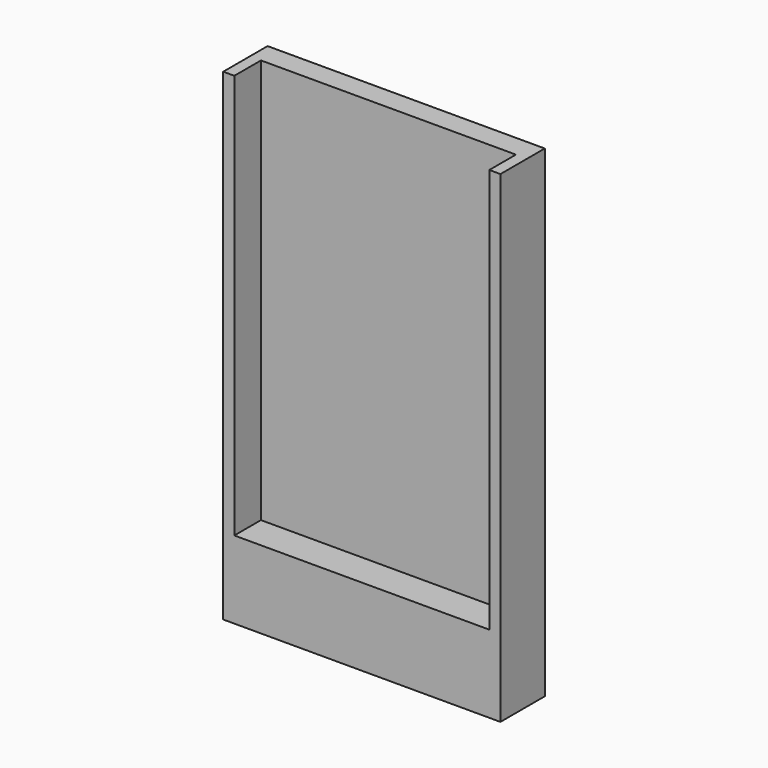
from build123d import *

# Parameters (mm, degrees)
F0_W     = 29.21
F0_H     = 46.355
F1_DEPTH = 2.54
F0_H_2   = 4.445
F0_W_2   = 0.635
F2_DEPTH = 6.35


with BuildPart() as f1:
    # F0 (on Front) → F1 (new body)
    with BuildSketch(Plane.XZ):
        with Locations((0, 2.2225)):
            Rectangle(F0_W, F0_H)
    extrude(amount=F1_DEPTH)

    # F0 (on Front) → F2 (join)
    with BuildSketch(Plane.XZ):
        with Locations((0, -23.1775)):
            Rectangle(F0_W, F0_H_2)
        with Locations((14.9225, -23.1775)):
            Rectangle(F0_W_2, F0_H_2)
        with Locations((-14.9225, 2.2225)):
            Rectangle(F0_W_2, F0_H)
        with Locations((-15.5575, 2.2225)):
            Rectangle(F0_W_2, F0_H)
        with Locations((-15.5575, -23.1775)):
            Rectangle(F0_W_2, F0_H_2)
        with Locations((-14.9225, -23.1775)):
            Rectangle(F0_W_2, F0_H_2)
        Polygon((15.875, -25.4), (15.24, -25.4), (14.605, -25.4), (-14.605, -25.4), (-15.24, -25.4), (-15.875, -25.4), (-15.875, -29.845), (15.875, -29.845), align=None)
        with Locations((15.5575, -23.1775)):
            Rectangle(F0_W_2, F0_H_2)
        with Locations((15.5575, 2.2225)):
            Rectangle(F0_W_2, F0_H)
        with Locations((14.9225, 2.2225)):
            Rectangle(F0_W_2, F0_H)
    extrude(amount=F2_DEPTH)


solid = f1.part
